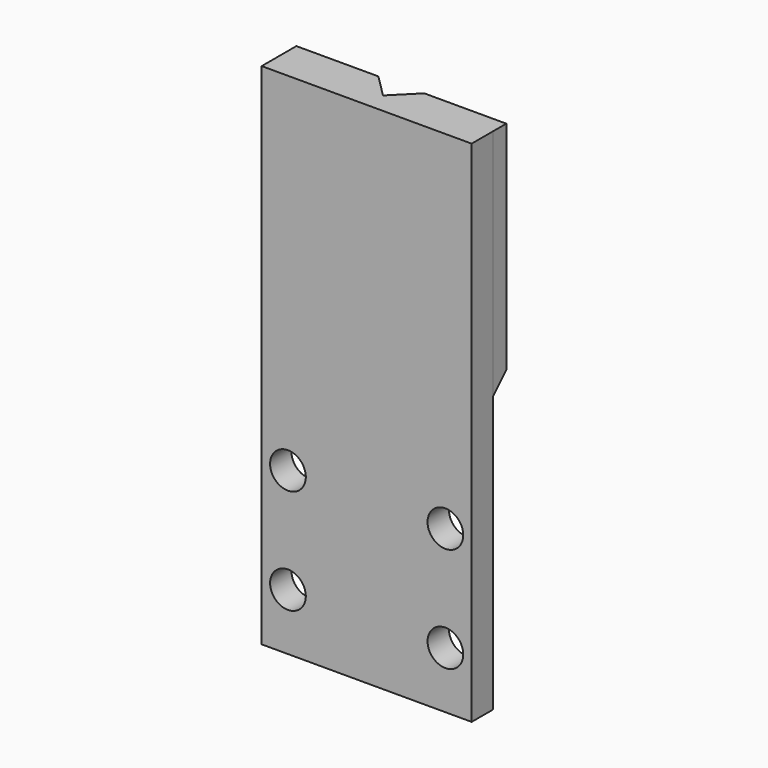
from build123d import *

# Parameters (mm, degrees)
SKETCH052_W     = 19.99996
SKETCH052_H     = 48.49876
SKETCH052_R     = 1.7
PAD012_DEPTH    = 2.54
SKETCH038_W     = 20
SKETCH038_H     = 22.225
PAD004_DEPTH    = 1.5875
POCKET005_DEPTH = 12.7
POCKET006_DEPTH = 9.525
CHAMFER_SIZE    = 1.4986
SKETCH053_R     = 0.9
PAD013_DEPTH    = 2.975
CHAMFER002_SIZE = 1.016
CHAMFER004_SIZE = 1.58496


with BuildPart() as part:
    # Sketch052 → Pad012 (new body)
    with BuildSketch(Plane(origin=(0, 10, -45.999574), x_dir=(-1, 0, 0), z_dir=(0, 1, 0))):
        with Locations((0, 13.85062)):
            Rectangle(SKETCH052_W, SKETCH052_H)
        with Locations((-7.5, 5.00124)):
            Circle(SKETCH052_R, mode=Mode.SUBTRACT)
        with Locations((-7.5, -4.99876)):
            Circle(SKETCH052_R, mode=Mode.SUBTRACT)
        with Locations((7.5, -4.99876)):
            Circle(SKETCH052_R, mode=Mode.SUBTRACT)
        with Locations((7.5, 5.00124)):
            Circle(SKETCH052_R, mode=Mode.SUBTRACT)
    extrude(amount=PAD012_DEPTH)

    # Sketch038 (on Face10 of Pad012) → Pad004 (join)
    with BuildSketch(Plane(origin=(0, 12.54, -45.999574), x_dir=(-1, 0, 0), z_dir=(0, 1, 0))):
        with Locations((0, 26.9875)):
            Rectangle(SKETCH038_W, SKETCH038_H)
    extrude(amount=PAD004_DEPTH)

    # Sketch040 (on Face5 of Pad004) → Pocket005 (cut)
    with BuildSketch(Plane(origin=(0, 10, -7.899574), x_dir=(1, 0, 0), z_dir=(0, 0, 1))):
        Polygon((-2.184862, 4.1275), (0, 1.942638), (2.184862, 4.1275), align=None)
    extrude(amount=-POCKET005_DEPTH, mode=Mode.SUBTRACT)

    # Sketch037 (on Face18 of Pocket005) → Pocket006 (cut)
    with BuildSketch(Plane(origin=(0, 10, -20.599574), x_dir=(1, 0, 0), z_dir=(0, 0, 1))):
        with BuildLine():
            Line((-2.184862, 3.2225), (-2.184862, 4.1275))
            Line((-2.184862, 4.1275), (2.184862, 4.1275))
            Line((2.184862, 4.1275), (2.184862, 3.2225))
            ThreePointArc((-2.184862, 3.2225), (0, 1.037638), (2.184862, 3.2225))
        make_face()
    extrude(amount=-POCKET006_DEPTH, mode=Mode.SUBTRACT)

    # Chamfer
    chamfer_edges = [part.edges().sort_by_distance(p)[0] for p in [
        (0, 12.54, -30.124574),
    ]]
    chamfer(chamfer_edges, length=CHAMFER_SIZE)

    # Sketch053 (on Face6 of Chamfer) → Pad013 (join)
    with BuildSketch(Plane(origin=(0, 10, -56.398334), x_dir=(-1, 0, 0), z_dir=(0, 0, -1))):
        with BuildLine():
            Line((-3.175, 2.54), (-3.175, 0))
            Line((-3.175, 0), (3.175, 0))
            Line((3.175, 0), (3.175, 2.54))
            Line((3.175, 2.54), (1.90374, 6.488023))
            ThreePointArc((1.90374, 6.488023), (0, 7.87502), (-1.90374, 6.488023))
            Line((-1.90374, 6.488023), (-3.175, 2.54))
        make_face()
        with Locations((0, 5.87502)):
            Circle(SKETCH053_R, mode=Mode.SUBTRACT)
    extrude(amount=-PAD013_DEPTH)

    # Chamfer002
    chamfer002_edges = [part.edges().sort_by_distance(p)[0] for p in [
        (0, 12.54, -53.423334),
    ]]
    chamfer(chamfer002_edges, length=CHAMFER002_SIZE)

    # Chamfer004
    chamfer004_edges = [part.edges().sort_by_distance(p)[0] for p in [
        (6.092431, 14.1275, -30.124574),
        (-6.092431, 14.1275, -30.124574),
    ]]
    chamfer(chamfer004_edges, length=CHAMFER004_SIZE)


solid = part.part
